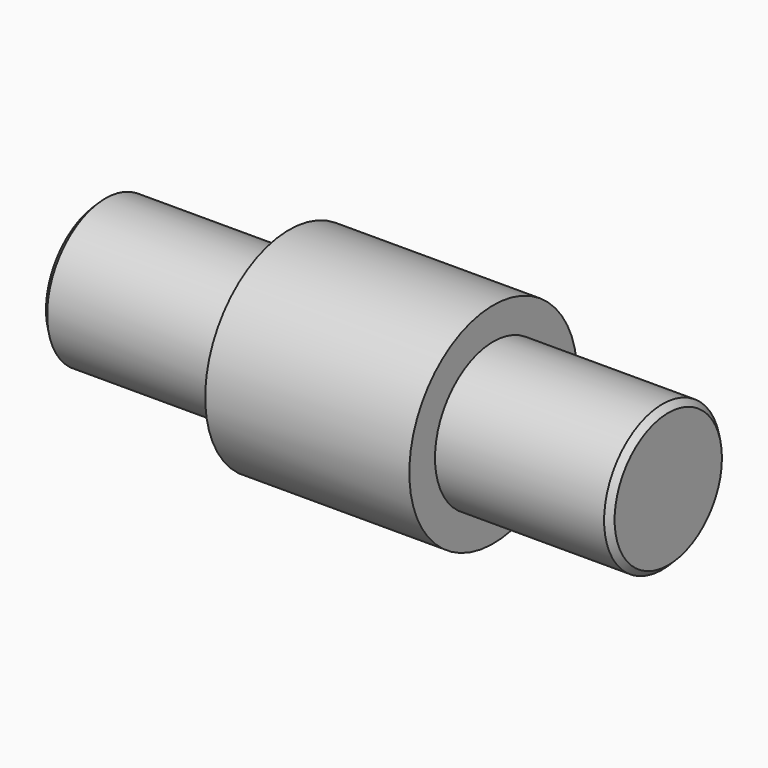
from build123d import *

# Parameters (mm, degrees)
F1_START = 347.5
F0_R     = 36
F1_DEPTH = 70
F3_START = 282.5
F2_R     = 25
F3_DEPTH = 195
F4_SIZE2 = 2
F4_SIZE  = 2


with BuildPart() as f1:
    # F0 (on Right) → F1 (new body)
    with BuildSketch(Plane.YZ.offset(F1_START)):
        Circle(F0_R)
    extrude(amount=F1_DEPTH)

    # F2 (on Right) → F3 (join)
    with BuildSketch(Plane.YZ.offset(F3_START)):
        Circle(F2_R)
    extrude(amount=F3_DEPTH)

    # F4
    f4_edges = [f1.edges().sort_by_distance(p)[0] for p in [
        (477.5, -25, 0),
        (282.5, -25, 0),
    ]]
    chamfer(f4_edges, length=F4_SIZE, length2=F4_SIZE2)


solid = f1.part
